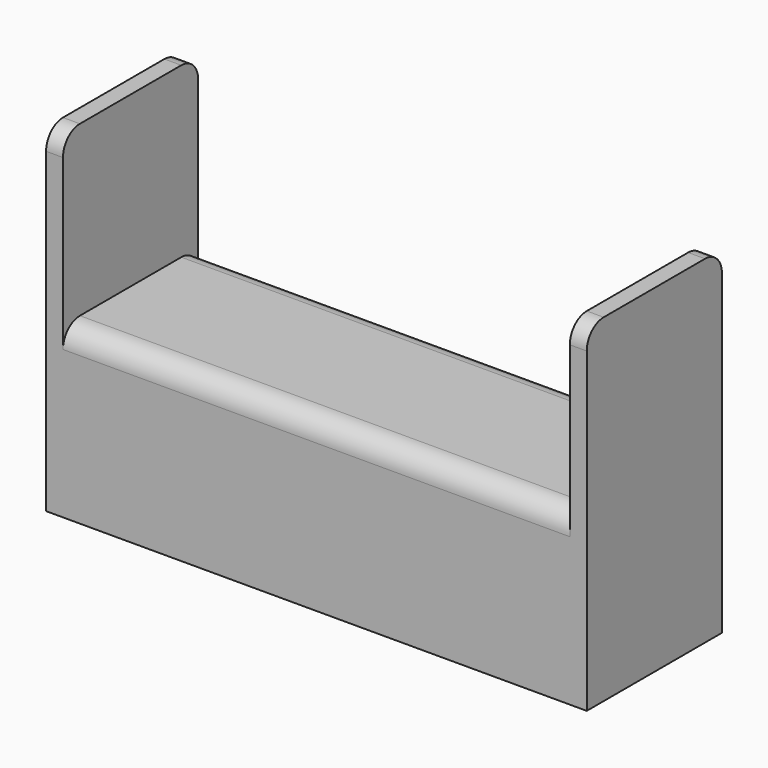
from build123d import *

# Parameters (mm, degrees)
F1_W     = 120
F1_H     = 40
F2_DEPTH = 40
F1_W_2   = 4
F3_DEPTH = 80
F4_R     = 5


with BuildPart() as f2:
    # F1 (on Top) → F2 (new body)
    with BuildSketch(Plane.XY):
        with Locations((-60, -20)):
            Rectangle(F1_W, F1_H)
    extrude(amount=F2_DEPTH)

    # F1 (on Top) → F3 (join)
    with BuildSketch(Plane.XY):
        with Locations((2, -20)):
            Rectangle(F1_W_2, F1_H)
        with Locations((-122, -20)):
            Rectangle(F1_W_2, F1_H)
    extrude(amount=F3_DEPTH)

    # F4
    f4_edges = [f2.edges().sort_by_distance(p)[0] for p in [
        (-60, -40, 40),
        (-60, 0, 40),
        (-122, -40, 80),
        (-122, 0, 80),
        (2, -40, 80),
        (2, 0, 80),
    ]]
    fillet(f4_edges, radius=F4_R)


solid = f2.part
